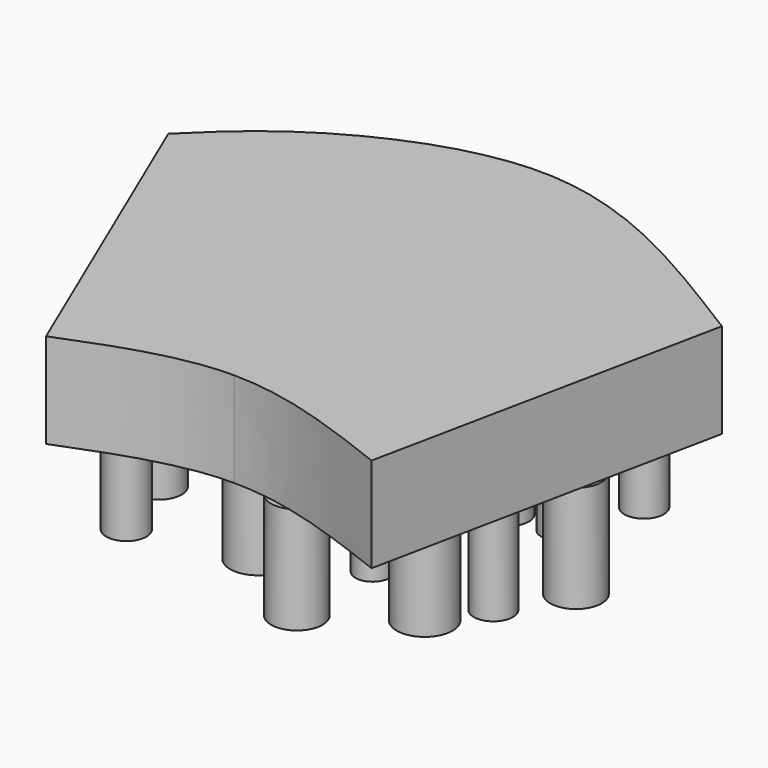
from build123d import *

# Parameters (mm, degrees)
F1_DEPTH = 10.16
F2_R     = 2.1564519843
F2_R_2   = 2.3923702538
F2_R_3   = 2.1564526301
F2_R_4   = 2.1770869146
F2_R_5   = 2.4109862959
F2_R_6   = 2.7570652868
F2_R_7   = 2.0933216438
F2_R_8   = 2.990457695
F2_R_9   = 2.2198527124
F2_R_10  = 1.8190305029
F2_R_11  = 1.8387155142
F2_R_12  = 2.1145744296
F2_R_13  = 2.1145735077
F2_R_14  = 2.6087828651
F2_R_15  = 2.7540496492
F3_DEPTH = 11.43


with BuildPart() as f1:
    # F0 (on Top) → F1 (new body)
    with BuildSketch(Plane.XY):
        with BuildLine():
            Line((-37.0129699249, 29.0515665345), (-22.0740177821, -5.9975091862))
            add(Edge.make_bspline(
                [(-22.0740177821, -5.9975091862), (-16.5983583816, -3.8389512748), (-11.1226989812, -1.6803933635), (-5.4113422719, -1.6881978796)],
                knots=[0, 0, 0, 0, 0.4856720492, 0.4856720492, 0.4856720492, 0.4856720492], degree=3))
            Line((-5.4113422719, -1.6881978796), (-7.0937201381, 43.1048534811))
            add(Edge.make_bspline(
                [(-37.0129699249, 29.0515665345), (-34.5100802002, 31.5150728582), (-28.5482955637, 37.3672378076), (-14.9902000403, 43.528977618), (-7.0937201381, 43.1048534811)],
                knots=[0, 0, 0, 0, 0.249259537, 0.5939682437, 0.5939682437, 0.5939682437, 0.5939682437], degree=3))
        make_face()
        with BuildLine():
            Line((-7.0937201381, 43.1048534811), (-5.4113422719, -1.6881978796))
            add(Edge.make_bspline(
                [(-5.4113422719, -1.6881978796), (0.6369991913, -1.6964628823), (6.9496719938, -4.1342740027), (13.2623447962, -6.5720851231)],
                knots=[0.4856720492, 0.4856720492, 0.4856720492, 0.4856720492, 1, 1, 1, 1], degree=3))
            Line((13.2623447962, -6.5720851231), (20.9533623688, 30.7435717611))
            add(Edge.make_bspline(
                [(-7.0937201381, 43.1048534811), (2.2075291227, 42.6052784344), (11.5477053398, 36.5558132985), (20.9533623688, 30.7435717611)],
                knots=[0.5939682437, 0.5939682437, 0.5939682437, 0.5939682437, 1, 1, 1, 1], degree=3))
        make_face()
    extrude(amount=F1_DEPTH)

    # F2 (on face) → F3 (join)
    with BuildSketch(Plane(origin=(0, 0, 0), x_dir=(1, 0, 0), z_dir=(0, 0, -1))):
        with Locations((-20.888786763, -3.2725401688)):
            Circle(F2_R)
        with Locations((-23.5802009702, -11.0477376729)):
            Circle(F2_R_2)
        with Locations((-27.4677984416, -17.6267512143)):
            Circle(F2_R_3)
        with Locations((-31.3553959131, -25.4019480199)):
            Circle(F2_R_4)
        with Locations((-21.1878307164, -27.1962247789)):
            Circle(F2_R_5)
        with Locations((-15.8050004393, -17.6267512143)):
            Circle(F2_R_6)
        with Locations((-12.2164459899, -11.0477376729)):
            Circle(F2_R_7)
        with Locations((-8.9269392192, -5.9639546089)):
            Circle(F2_R_8)
        with Locations((0, -17.6267512143)):
            Circle(F2_R_9)
        with Locations((-7.4317138642, -25.7009956986)):
            Circle(F2_R_10)
        with Locations((0, -10.1505992934)):
            Circle(F2_R_11)
        with Locations((-10.4221720248, -33.4761925042)):
            Circle(F2_R_12)
        with Locations((2.4368111044, -25.4019480199)):
            Circle(F2_R_13)
        with Locations((0, -34.0742841363)):
            Circle(F2_R_14)
        Circle(F2_R_15)
        with Locations((8.9269392192, -5.9639546089)):
            Circle(F2_R_8)
        with Locations((12.2164459899, -11.0477376729)):
            Circle(F2_R_7)
        with Locations((15.8050004393, -17.6267512143)):
            Circle(F2_R_6)
        with Locations((10.4221720248, -33.4761925042)):
            Circle(F2_R_12)
        with Locations((7.4317138642, -25.7009956986)):
            Circle(F2_R_10)
    extrude(amount=F3_DEPTH)


solid = f1.part
